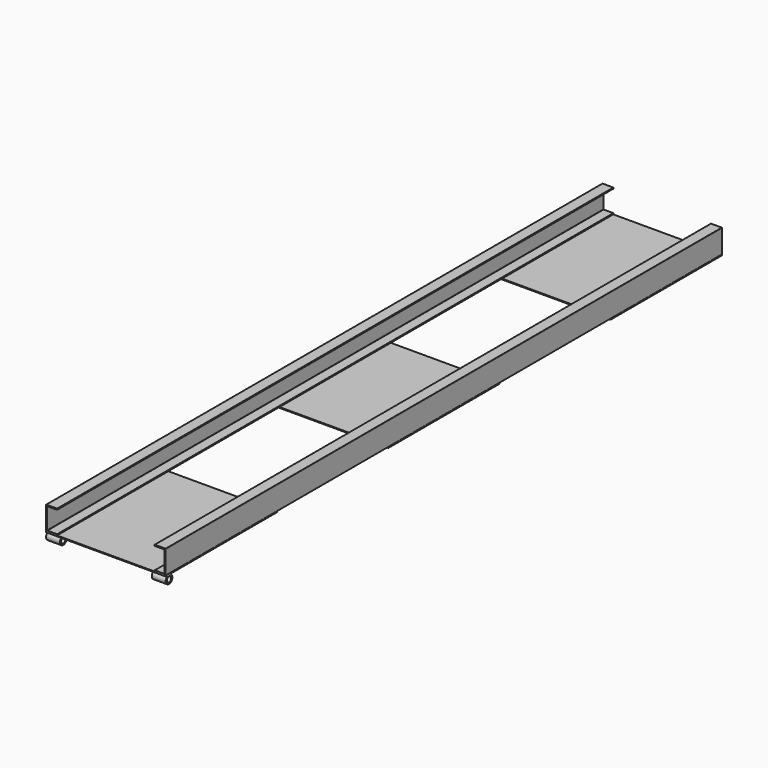
from build123d import *

# Parameters (mm, degrees)
F1_DEPTH = 2500
F2_W     = 430
F2_H     = 500
F3_DEPTH = 3
F4_R     = 10
F5_DEPTH = 430
F6_W     = 330
F6_H     = 35.722197
F7_DEPTH = 49


with BuildPart() as f1:
    # F0 (on Front) → F1 (new body)
    with BuildSketch(Plane.XZ):
        with BuildLine():
            ThreePointArc((-175, 41.5), (-175.292893, 42.207107), (-176, 42.5))
            Line((-176, 42.5), (-214, 42.5))
            ThreePointArc((-214, 42.5), (-214.707107, 42.207107), (-215, 41.5))
            Line((-215, 41.5), (-215, -41.5))
            ThreePointArc((-215, -41.5), (-214.707107, -42.207107), (-214, -42.5))
            Line((-214, -42.5), (-176, -42.5))
            ThreePointArc((-176, -42.5), (-175.292893, -42.207107), (-175, -41.5))
            Line((-175, -41.5), (-175, -39.5))
            ThreePointArc((-175, -39.5), (-175.292893, -38.792893), (-176, -38.5))
            Line((-176, -38.5), (-210, -38.5))
            ThreePointArc((-210, -38.5), (-210.707107, -38.207107), (-211, -37.5))
            Line((-211, -37.5), (-211, 37.5))
            ThreePointArc((-211, 37.5), (-210.707107, 38.207107), (-210, 38.5))
            Line((-210, 38.5), (-176, 38.5))
            ThreePointArc((-176, 38.5), (-175.292893, 38.792893), (-175, 39.5))
            Line((-175, 39.5), (-175, 41.5))
        make_face()
        with BuildLine():
            ThreePointArc((175, -41.5), (175.292893, -42.207107), (176, -42.5))
            Line((176, -42.5), (214, -42.5))
            ThreePointArc((214, -42.5), (214.707107, -42.207107), (215, -41.5))
            Line((215, -41.5), (215, 41.5))
            ThreePointArc((215, 41.5), (214.707107, 42.207107), (214, 42.5))
            Line((214, 42.5), (176, 42.5))
            ThreePointArc((176, 42.5), (175.292893, 42.207107), (175, 41.5))
            Line((175, 41.5), (175, 39.5))
            ThreePointArc((175, 39.5), (175.292893, 38.792893), (176, 38.5))
            Line((176, 38.5), (210, 38.5))
            ThreePointArc((210, 38.5), (210.707107, 38.207107), (211, 37.5))
            Line((211, 37.5), (211, -37.5))
            ThreePointArc((211, -37.5), (210.707107, -38.207107), (210, -38.5))
            Line((210, -38.5), (176, -38.5))
            ThreePointArc((176, -38.5), (175.292893, -38.792893), (175, -39.5))
            Line((175, -39.5), (175, -41.5))
        make_face()
    extrude(amount=F1_DEPTH)


with BuildPart() as f3:
    # F2 (on face) → F3 (new body)
    with BuildSketch(Plane(origin=(0, 0, -42.5), x_dir=(1, 0, 0), z_dir=(0, 0, -1))):
        with Locations((0, 2250)):
            Rectangle(F2_W, F2_H)
        with Locations((0, 1250)):
            Rectangle(F2_W, F2_H)
        with Locations((0, 250)):
            Rectangle(F2_W, F2_H)
    extrude(amount=F3_DEPTH)

    # F4 (on face) → F5 (join, through all)
    with BuildSketch(Plane(origin=(-215, 0, 0), x_dir=(0, -1, 0), z_dir=(-1, 0, 0))):
        with BuildLine():
            ThreePointArc((2472.752551, -45.5), (2475.067102, -47.055089), (2474.502187, -49.785714))
            ThreePointArc((2474.502187, -49.785714), (2485, -75.5), (2495.497813, -49.785714))
            ThreePointArc((2495.497813, -49.785714), (2494.932898, -47.055089), (2497.247449, -45.5))
            Line((2497.247449, -45.5), (2472.752551, -45.5))
        make_face()
        with Locations((2485, -60.5)):
            Circle(F4_R, mode=Mode.SUBTRACT)
    extrude(amount=-F5_DEPTH)

    # F6 (on face) → F7 (cut)
    with BuildSketch(Plane.XZ.offset(2500)):
        with Locations((0, -63.361098)):
            Rectangle(F6_W, F6_H)
    extrude(amount=-F7_DEPTH, mode=Mode.SUBTRACT)


solid = Compound([f1.part, f3.part])
